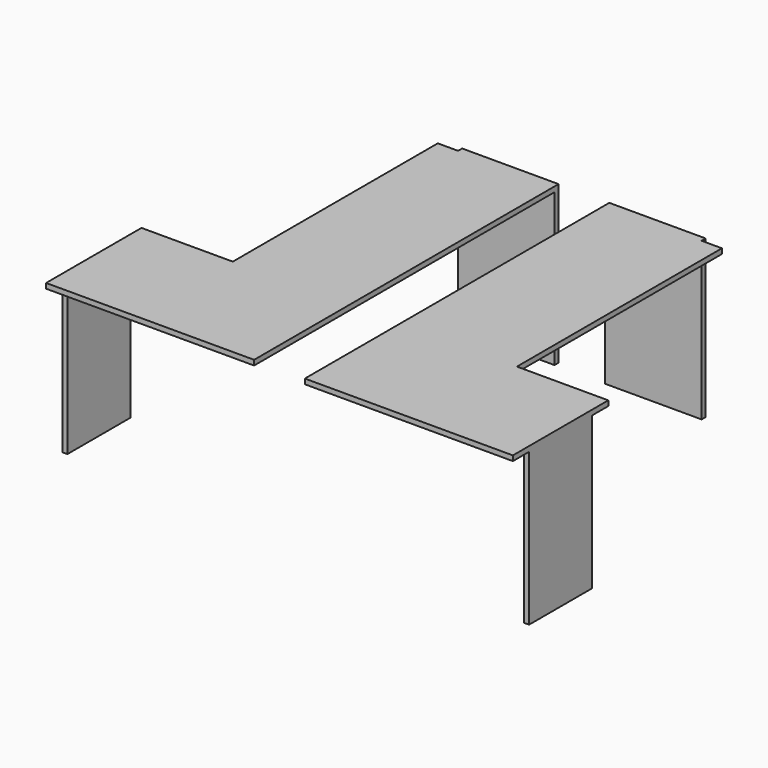
from build123d import *

# Parameters (mm, degrees)
F0_W      = 90
F0_H      = 117.5
F1_DEPTH  = 5
F2_W      = 50
F2_H      = 370
F3_DEPTH  = 25
F5_W      = 77.5
F5_H      = 150
F7_DEPTH  = 5
F4_W      = 95
F4_H      = 150
F4_H_2    = 155
F4_H_3    = 5
F8_DEPTH  = 5
F6_W      = 77.5
F6_H      = 150
F9_DEPTH  = 5
F10_W     = 55
F10_H     = 30
F11_DEPTH = 25


with BuildPart() as f1:
    # F0 (on Top) → F1 (new body)
    with BuildSketch(Plane.XY):
        Polygon((280, 0), (0, 0), (0, -252.5), (0, -370), (280, -370), (280, -252.5), align=None)
        with Locations((-45, -311.25)):
            Rectangle(F0_W, F0_H)
        with Locations((325, -311.25)):
            Rectangle(F0_W, F0_H)
    extrude(amount=F1_DEPTH)

    # F2 (on face) → F3 (cut)
    with BuildSketch(Plane.XY.offset(5)):
        with Locations((140, -185)):
            Rectangle(F2_W, F2_H)
    extrude(amount=-F3_DEPTH, mode=Mode.SUBTRACT)

    # F5 (on face) → F7 (join)
    with BuildSketch(Plane(origin=(-90, 0, 0), x_dir=(0, -1, 0), z_dir=(-1, 0, 0))):
        with Locations((311.25, -75)):
            Rectangle(F5_W, F5_H)
    extrude(amount=-F7_DEPTH)

    # F4 (on face) → F8 (join)
    with BuildSketch(Plane(origin=(0, 0, 0), x_dir=(-1, 0, 0), z_dir=(0, 1, 0))):
        with Locations((-212.5, -75)):
            Rectangle(F4_W, F4_H)
        with Locations((-67.5, -72.5)):
            Rectangle(F4_W, F4_H_2)
        with Locations((-212.5, 2.5)):
            Rectangle(F4_W, F4_H_3)
    extrude(amount=F8_DEPTH)

    # F6 (on face) → F9 (join)
    with BuildSketch(Plane.YZ.offset(370)):
        with Locations((-311.25, -75)):
            Rectangle(F6_W, F6_H)
    extrude(amount=-F9_DEPTH)

    # F10 (on face) → F11 (cut)
    with BuildSketch(Plane(origin=(0, 5, 0), x_dir=(-1, 0, 0), z_dir=(0, 1, 0))):
        with Locations((-47.5, -135)):
            Rectangle(F10_W, F10_H)
    extrude(amount=-F11_DEPTH, mode=Mode.SUBTRACT)


solid = f1.part
